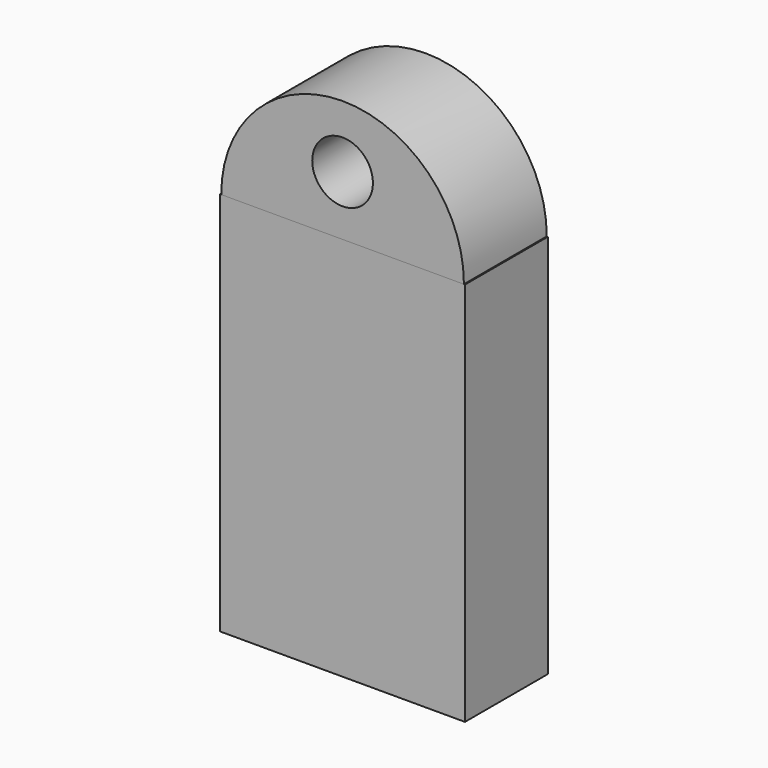
from build123d import *

# Parameters (mm, degrees)
F2_DEPTH = 16.002
F0_W     = 75.6393447518
F0_H     = 118.9685091376
F3_R     = 9.3760828489
F4_DEPTH = 89.662


with BuildPart() as f2:
    # F1 (on face) → F2 (new body, symmetric)
    with BuildSketch(Plane.XZ):
        with BuildLine():
            Line((37.4894359182, 59.4842545688), (-37.4894359182, 59.4842545688))
            ThreePointArc((-37.4894359182, 59.4842545688), (0, 22.1678595101), (37.4894359182, 59.4842545688))
        make_face()
        with BuildLine():
            ThreePointArc((37.4894359182, 59.4842545688), (37.4897368227, 59.5709753697), (37.4898371244, 59.6576966345))
            ThreePointArc((37.4898371244, 59.6576966345), (-0.0867212649, 97.1474334573), (-37.4894359182, 59.4842545688))
            Line((-37.4894359182, 59.4842545688), (37.4894359182, 59.4842545688))
        make_face()
        with BuildLine():
            ThreePointArc((37.4894359182, 59.4842545688), (0, 22.1678595101), (-37.4894359182, 59.4842545688))
            Line((-37.4894359182, 59.4842545688), (-37.8196723759, 59.4842545688))
            Line((-37.8196723759, 59.4842545688), (-37.8196723759, -59.4842545688))
            Line((-37.8196723759, -59.4842545688), (37.8196723759, -59.4842545688))
            Line((37.8196723759, -59.4842545688), (37.8196723759, 59.4842545688))
            Line((37.8196723759, 59.4842545688), (37.4894359182, 59.4842545688))
        make_face()
    extrude(amount=F2_DEPTH, both=True)

    # F3 (on face) → F4 (cut)
    with BuildSketch(Plane(origin=(0, 16.002, 0), x_dir=(-1, 0, 0), z_dir=(0, 1, 0))):
        with Locations((0, 77.8516829014)):
            Circle(F3_R)
    extrude(amount=-F4_DEPTH, mode=Mode.SUBTRACT)


with BuildPart() as f2b:
    # F0 (on Front) → F2, piece 2 (new body, symmetric)
    with BuildSketch(Plane.XZ):
        Rectangle(F0_W, F0_H)
    extrude(amount=F2_DEPTH, both=True)


solid = Compound([f2.part, f2b.part])
